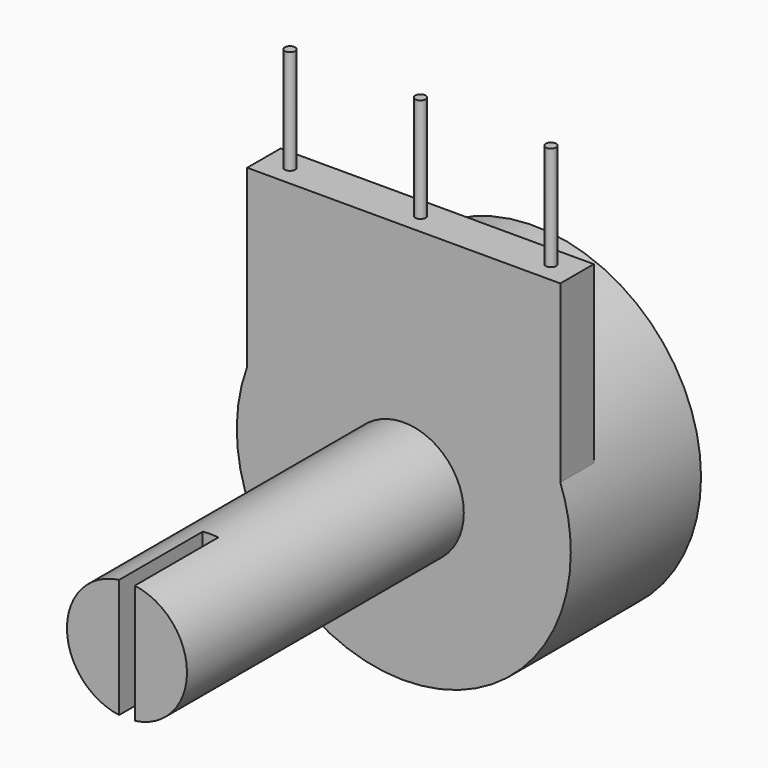
from build123d import *

# Parameters (mm, degrees)
F0_R     = 8.128
F1_DEPTH = 7.9248
F2_R     = 2.921
F3_DEPTH = 16.8402
F4_W     = 15.24
F4_H     = 10.8462307572
F5_DEPTH = 2.032
F6_R     = 0.254
F7_DEPTH = 5.08
F8_W     = 0.762
F8_H     = 6.35
F9_DEPTH = 5.08


with BuildPart() as f1:
    # F0 (on Front) → F1 (new body)
    with BuildSketch(Plane.XZ):
        Circle(F0_R)
    extrude(amount=F1_DEPTH)

    # F2 (on face) → F3 (join)
    with BuildSketch(Plane.XZ.offset(7.9248)):
        Circle(F2_R)
    extrude(amount=F3_DEPTH)

    # F4 (on face) → F5 (join)
    with BuildSketch(Plane.XZ.offset(7.9248)):
        with Locations((0, 5.9306846214)):
            Rectangle(F4_W, F4_H)
    extrude(amount=-F5_DEPTH)

    # F6 (on face) → F7 (join)
    with BuildSketch(Plane.XY.offset(11.3538)):
        with Locations((0, -6.9088)):
            Circle(F6_R)
        with Locations((6.35, -6.9088)):
            Circle(F6_R)
        with Locations((-6.35, -6.9088)):
            Circle(F6_R)
    extrude(amount=F7_DEPTH)

    # F8 (on face) → F9 (cut)
    with BuildSketch(Plane.XZ.offset(24.765)):
        Rectangle(F8_W, F8_H)
    extrude(amount=-F9_DEPTH, mode=Mode.SUBTRACT)


solid = f1.part
